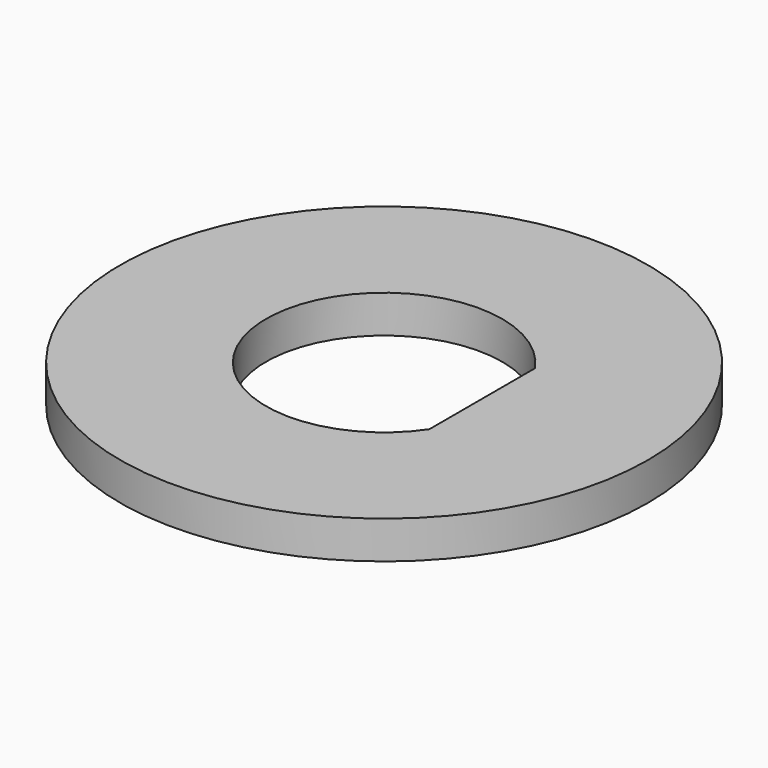
from build123d import *

# Parameters (mm, degrees)
SKETCH_R  = 10.5
PAD_DEPTH = 1.5


with BuildPart() as part:
    # Sketch → Pad (new body)
    with BuildSketch(Plane.XY):
        Circle(SKETCH_R)
        with BuildLine():
            ThreePointArc((3.9, 2.622975), (-4.7, 0), (3.9, -2.622975))
            Line((3.9, 2.622975), (3.9, -2.622975))
        make_face(mode=Mode.SUBTRACT)
    extrude(amount=PAD_DEPTH)


solid = part.part
